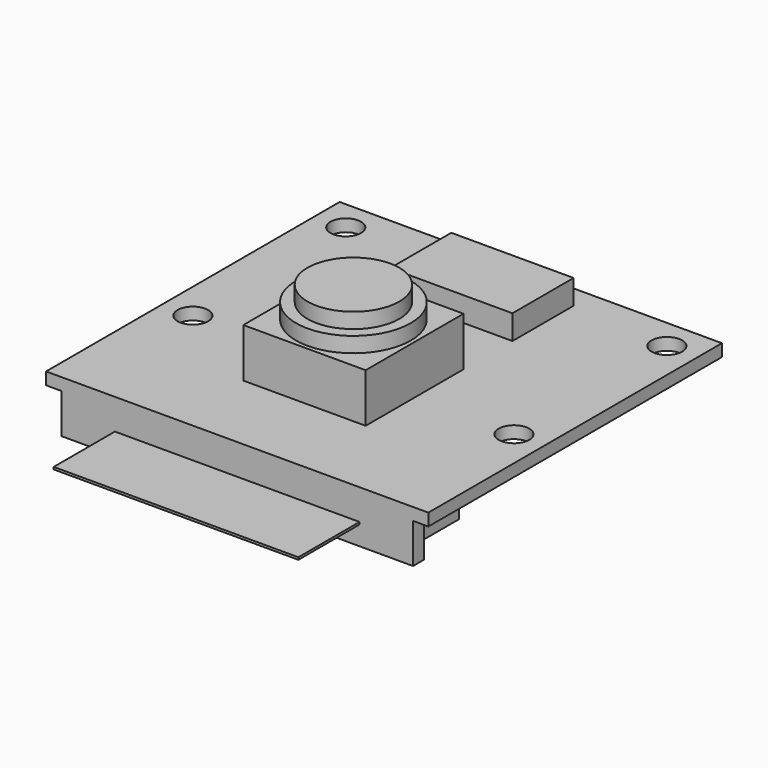
from build123d import *

# Parameters (mm, degrees)
F0_W      = 25
F0_H      = 24
F1_DEPTH  = 0.8
F2_W      = 8
F2_H      = 8
F3_DEPTH  = 3.2
F4_R      = 3.75
F5_DEPTH  = 1
F6_R      = 3
F7_DEPTH  = 1
F9_D      = 2
F10_W     = 8
F10_H     = 5
F11_DEPTH = 1.6
F13_DEPTH = 2.6
F14_W     = 16
F14_H     = 0.15
F15_DEPTH = 5


with BuildPart() as f1:
    # F0 (on Top) → F1 (new body)
    with BuildSketch(Plane.XY):
        with Locations((0, 2.5)):
            Rectangle(F0_W, F0_H)
    extrude(amount=-F1_DEPTH)

    # F2 (on face) → F3 (join)
    with BuildSketch(Plane.XY):
        Rectangle(F2_W, F2_H)
    extrude(amount=F3_DEPTH)

    # F4 (on face) → F5 (join)
    with BuildSketch(Plane.XY.offset(3.2)):
        Circle(F4_R)
    extrude(amount=F5_DEPTH)

    # F6 (on face) → F7 (join)
    with BuildSketch(Plane.XY.offset(4.2)):
        Circle(F6_R)
    extrude(amount=F7_DEPTH)

    # F9 (through all)
    with Locations(Plane.XY):
        with Locations((-10.5, 12.5), (10.5, 12.5), (10.5, 0), (-10.5, 0)):
            Hole(F9_D / 2)

    # F10 (on face) → F11 (join)
    with BuildSketch(Plane.XY):
        with Locations((0, 10.5)):
            Rectangle(F10_W, F10_H)
    extrude(amount=F11_DEPTH)

    # F12 (on face) → F13 (join)
    with BuildSketch(Plane(origin=(0, 0, -0.8), x_dir=(1, 0, 0), z_dir=(0, 0, -1))):
        Polygon((11.5, 9.5), (-11.5, 9.5), (-11.5, 8.6), (-10.1, 8.6), (-10.1, 4), (10.1, 4), (10.1, 8.6), (11.5, 8.6), align=None)
    extrude(amount=F13_DEPTH)

    # F14 (on face) → F15 (join)
    with BuildSketch(Plane.XZ.offset(9.5)):
        with Locations((0, -2.075)):
            Rectangle(F14_W, F14_H)
    extrude(amount=F15_DEPTH)


solid = f1.part
